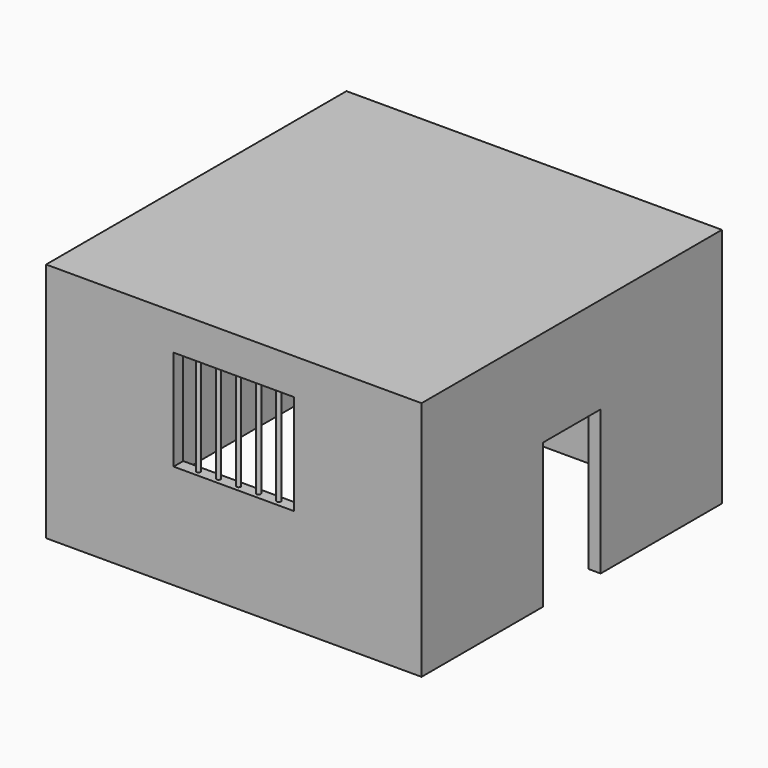
from build123d import *

# Parameters (mm, degrees)
F0_W     = 4749.8
F0_H     = 4749.8
F1_DEPTH = 3048
F2_W     = 1524
F2_H     = 1270
F3_DEPTH = 152.4
F4_W     = 4445
F4_H     = 4445
F5_DEPTH = 2895.6
F6_R     = 25.4
F7_DEPTH = 1270
F8_W     = 914.4
F8_H     = 3657.6
F9_DEPTH = 152.4


with BuildPart() as f1:
    # F0 (on Top) → F1 (new body)
    with BuildSketch(Plane.XY):
        Rectangle(F0_W, F0_H)
    extrude(amount=F1_DEPTH)

    # F2 (on face) → F3 (cut)
    with BuildSketch(Plane.XZ.offset(2374.9)):
        with Locations((0, 1956.513322)):
            Rectangle(F2_W, F2_H)
    extrude(amount=-F3_DEPTH, mode=Mode.SUBTRACT)

    # F4 (on face) → F5 (cut)
    with BuildSketch(Plane(origin=(0, 0, 0), x_dir=(1, 0, 0), z_dir=(0, 0, -1))):
        Rectangle(F4_W, F4_H)
    extrude(amount=-F5_DEPTH, mode=Mode.SUBTRACT)

    # F6 (on face) → F7 (join)
    with BuildSketch(Plane.XY.offset(1321.513322)):
        with Locations((-508, -2298.7)):
            Circle(F6_R)
        with Locations((0, -2298.7)):
            Circle(F6_R)
        with Locations((508, -2298.7)):
            Circle(F6_R)
        with Locations((-254, -2298.7)):
            Circle(F6_R)
        with Locations((254, -2298.7)):
            Circle(F6_R)
    extrude(amount=F7_DEPTH)

    # F8 (on face) → F9 (cut)
    with BuildSketch(Plane.YZ.offset(2374.9)):
        Rectangle(F8_W, F8_H)
    extrude(amount=-F9_DEPTH, mode=Mode.SUBTRACT)


solid = f1.part
